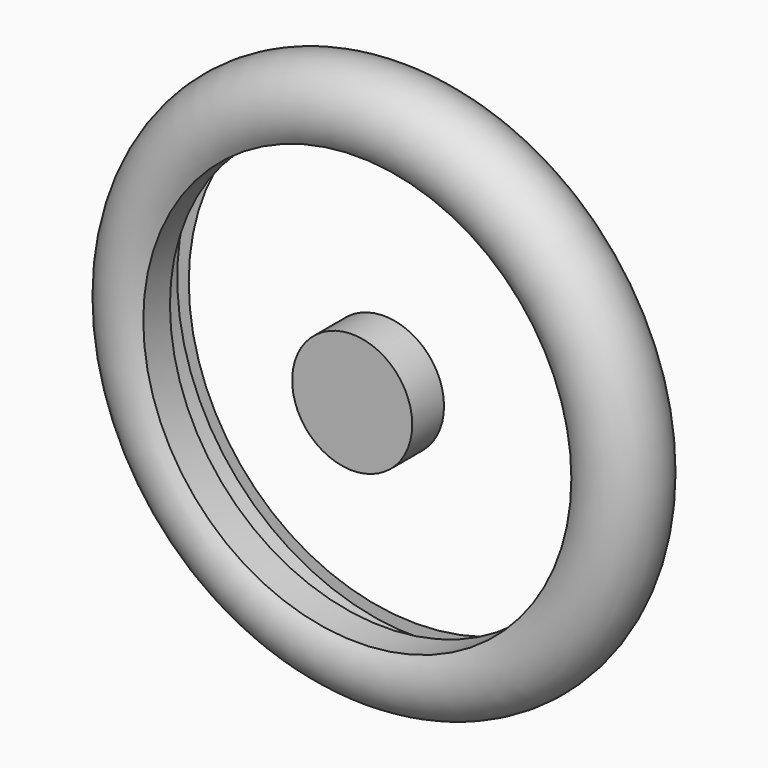
from build123d import *

# Parameters (mm, degrees)
F1_R     = 9.2512035182
F4_R     = 150
F4_R_2   = 37.7282385667
F7_DEPTH = 25
F8_DEPTH = 25


with BuildPart() as f2:
    # F2: sweep along a path in F0
    with BuildLine(Plane.XZ) as f2_path:
        ThreePointArc((-53.8952867203, 15.9109570086), (0, -56.1948439235), (53.8952867203, 15.9109570086))
    # F1 (on Top) → F2 (sweep)
    with BuildSketch(Plane.XY):
        with Locations((-56.1948439235, 0)):
            Circle(F1_R)
    sweep(path=f2_path.line)


with BuildPart() as f6:
    # F6: sweep along a path in F4
    with BuildLine(Plane.XZ) as f6_path:
        CenterArc((-70.6980675459, 0), 150, 0, 360)
    # F5 (on Top) → F6 (sweep)
    with BuildSketch(Plane.XY):
        with BuildLine():
            Line((-205.2769718125, -20.9643404032), (-205.2769718125, 20.9643404032))
            ThreePointArc((-205.2769718125, 20.9643404032), (-246.7233199397, 0), (-205.2769718125, -20.9643404032))
        make_face()
    sweep(path=f6_path.line)

    # F4 (on Front) → F7 (cut)
    with BuildSketch(Plane.XZ):
        with Locations((-70.6980675459, 0)):
            Circle(F4_R)
        with Locations((-70.6980675459, 0)):
            Circle(F4_R_2, mode=Mode.SUBTRACT)
    extrude(amount=-F7_DEPTH, mode=Mode.SUBTRACT)


with BuildPart() as f8:
    # F4 (on Front) → F8 (new body)
    with BuildSketch(Plane.XZ):
        with Locations((-70.6980675459, 0)):
            Circle(F4_R_2)
    extrude(amount=F8_DEPTH)


solid = Compound([f6.part, f8.part])
